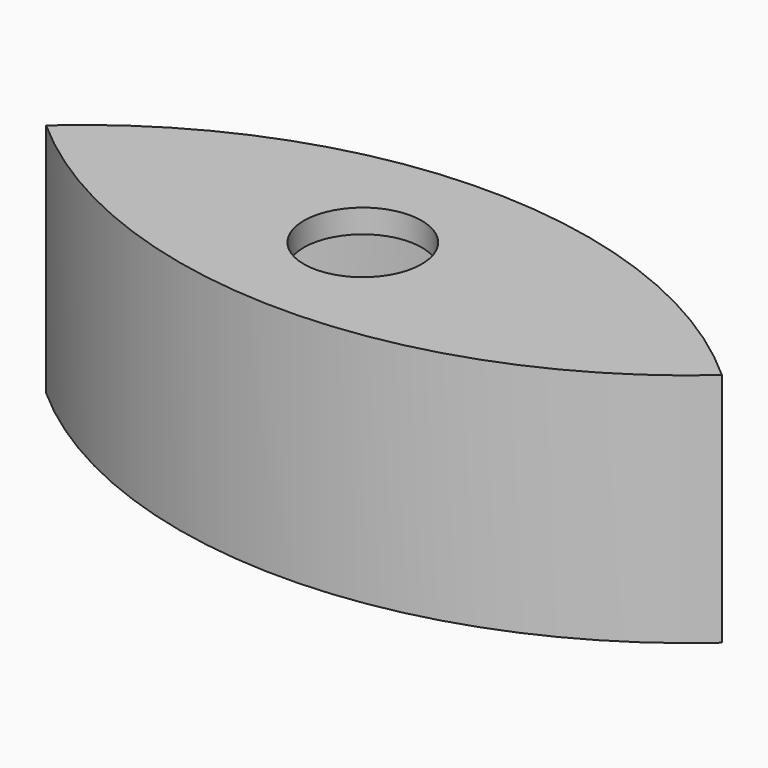
from build123d import *

# Parameters (mm, degrees)
F1_DEPTH = 25.4
F2_T     = -2.54
F4_D     = 12.7


with BuildPart() as f1:
    # F0 (on Top) → F1 (new body)
    with BuildSketch(Plane.XY):
        with BuildLine():
            ThreePointArc((-34.137599, 0), (2.286002, -13.83152), (38.709603, 0))
            ThreePointArc((38.709603, 0), (2.286002, 13.957497), (-34.137599, 0))
        make_face()
    extrude(amount=F1_DEPTH)

    # F2
    f2_openings = [f1.faces().sort_by_distance(p)[0] for p in [
        (2.286002, 0.052928, 0),
    ]]
    offset(amount=F2_T, openings=f2_openings)

    # F4 (through all)
    with Locations(Plane(origin=(0, 0, 0), x_dir=(1, 0, 0), z_dir=(0, 0, -1))):
        with Locations((0, 0)):
            Hole(F4_D / 2)


solid = f1.part
